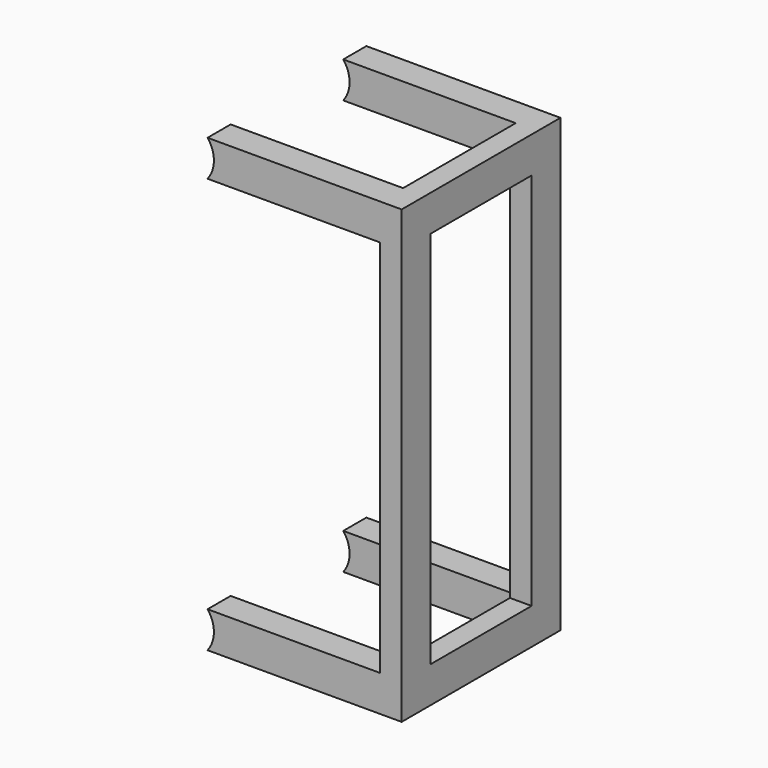
from build123d import *

# Parameters (mm, degrees)
F0_W     = 60
F0_H     = 125
F1_DEPTH = 55
F2_W     = 54
F2_H     = 105
F3_DEPTH = 55.001
F4_R     = 7.978421
F5_DEPTH = 55.001
F6_W     = 47.78267
F6_H     = 39
F7_DEPTH = 125.001
F8_W     = 35
F8_H     = 105
F9_DEPTH = 6.001


with BuildPart() as f1:
    # F0 (on Front) → F1 (new body)
    with BuildSketch(Plane.XZ):
        with Locations((-9.565847, 0)):
            Rectangle(F0_W, F0_H)
    extrude(amount=F1_DEPTH)

    # F2 (on face) → F3 (cut, through all)
    with BuildSketch(Plane.XZ.offset(55)):
        with Locations((-12.565847, 0)):
            Rectangle(F2_W, F2_H)
    extrude(amount=-F3_DEPTH, mode=Mode.SUBTRACT)

    # F4 (on face) → F5 (cut, through all)
    with BuildSketch(Plane.XZ.offset(55)):
        with Locations((-39.565847, 57.5)):
            Circle(F4_R)
        with Locations((-39.565847, -57.5)):
            Circle(F4_R)
    extrude(amount=-F5_DEPTH, mode=Mode.SUBTRACT)

    # F6 (on face) → F7 (cut, through all)
    with BuildSketch(Plane.XY.offset(62.5)):
        with Locations((-9.457182, -27.5)):
            Rectangle(F6_W, F6_H)
    extrude(amount=-F7_DEPTH, mode=Mode.SUBTRACT)

    # F8 (on face) → F9 (cut, through all)
    with BuildSketch(Plane(origin=(14.434153, 0, 0), x_dir=(0, -1, 0), z_dir=(-1, 0, 0))):
        with Locations((27.5, 0)):
            Rectangle(F8_W, F8_H)
    extrude(amount=-F9_DEPTH, mode=Mode.SUBTRACT)


solid = f1.part
